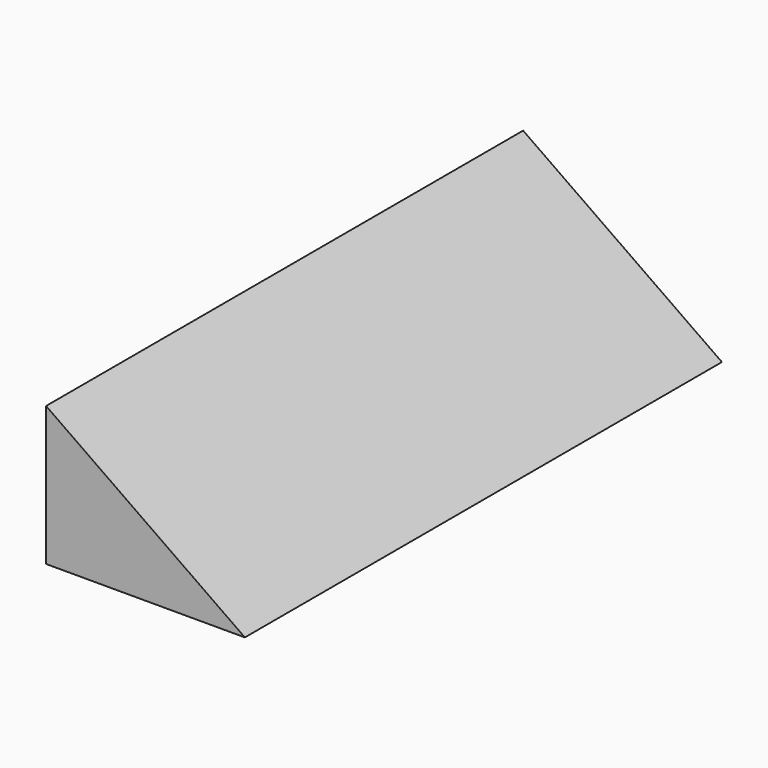
from build123d import *

# Parameters (mm, degrees)
F0_W     = 152.4
F0_H     = 35.56
F1_DEPTH = 50.8
F3_DEPTH = 203.2


with BuildPart() as f1:
    # F0 (on Right) → F1 (new body)
    with BuildSketch(Plane.YZ):
        with Locations((-24.398566, 53.500793)):
            Rectangle(F0_W, F0_H)
    extrude(amount=F1_DEPTH)

    # F2 (on face) → F3 (cut)
    with BuildSketch(Plane(origin=(0, 51.801434, 0), x_dir=(-1, 0, 0), z_dir=(0, 1, 0))):
        Polygon((-50.8, 35.720793), (0, 71.280793), (-50.8, 71.280793), align=None)
    extrude(amount=-F3_DEPTH, mode=Mode.SUBTRACT)


solid = f1.part
